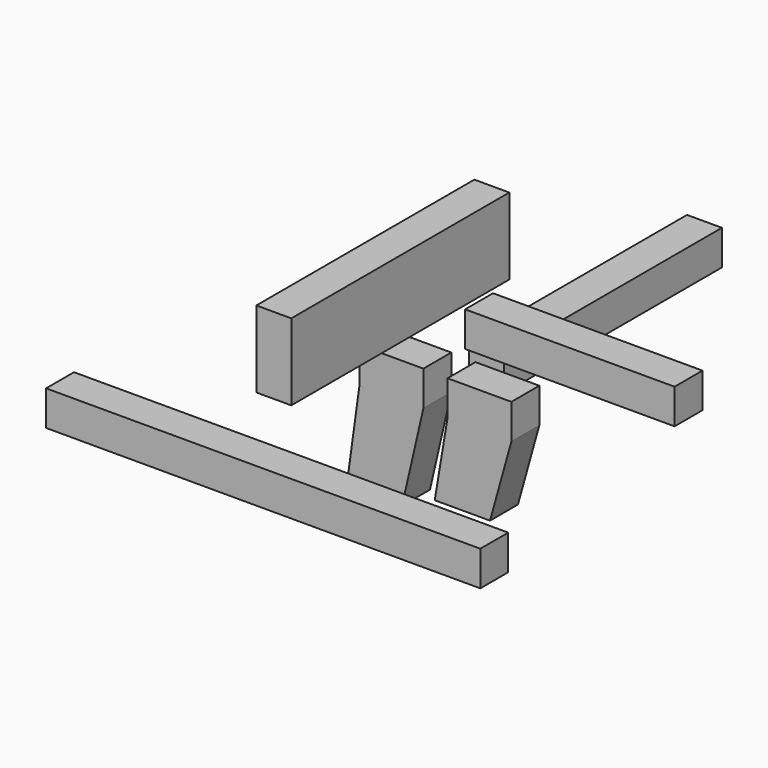
from build123d import *

# Parameters (mm, degrees)
F1_DEPTH  = 41
F2_W      = 246
F2_H      = 41
F3_DEPTH  = 41
F4_W      = 320
F4_H      = 41
F5_DEPTH  = 41
F6_W      = 510
F6_H      = 41
F7_DEPTH  = 41
F8_W      = 41
F8_H      = 90
F9_DEPTH  = 320
F11_DEPTH = 41


with BuildPart() as f1:
    # F0 (on Front) → F1 (new body)
    with BuildSketch(Plane.XZ):
        Polygon((3.41058, 78.639174), (-71.58942, 78.639174), (-71.58942, 37.639174), (-86.58942, -71.360826), (-21.654289, -71.360826), (3.41058, 37.639174), align=None)
    extrude(amount=F1_DEPTH)


with BuildPart() as f3:
    # F2 (on Front) → F3 (new body)
    with BuildSketch(Plane.XZ):
        with Locations((175.404556, 135.362919)):
            Rectangle(F2_W, F2_H)
    extrude(amount=F3_DEPTH)


with BuildPart() as f5:
    # F4 (on Right) → F5 (new body)
    with BuildSketch(Plane.YZ):
        with Locations((190.279366, 56.91339)):
            Rectangle(F4_W, F4_H)
    extrude(amount=F5_DEPTH)


with BuildPart() as f7:
    # F6 (on Top) → F7 (new body)
    with BuildSketch(Plane.XY):
        with Locations((-32.51787, -210.760753)):
            Rectangle(F6_W, F6_H)
    extrude(amount=F7_DEPTH)


with BuildPart() as f9:
    # F8 (on Front) → F9 (new body)
    with BuildSketch(Plane.XZ):
        with Locations((50.960384, 221.176924)):
            Rectangle(F8_W, F8_H)
    extrude(amount=F9_DEPTH)


with BuildPart() as f11:
    # F10 (on Front) → F11 (new body)
    with BuildSketch(Plane.XZ):
        Polygon((106.740724, 77.89586), (31.740724, 77.89586), (31.740724, 36.89586), (16.740724, -53.10414), (81.675855, -53.10414), (106.740724, 36.89586), align=None)
    extrude(amount=F11_DEPTH)


solid = Compound([f1.part, f3.part, f5.part, f7.part, f9.part, f11.part])
